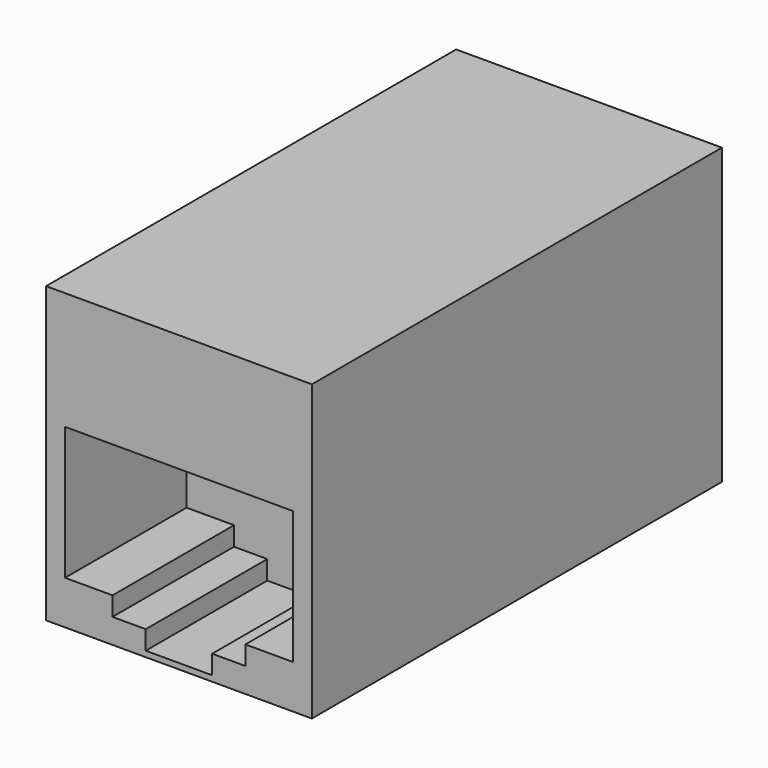
from build123d import *

# Parameters (mm, degrees)
PAD046_DEPTH = 8
PAD045_DEPTH = 8
BOX008_W     = 14
BOX008_H     = 27
BOX008_DEPTH = 15.5


with BuildPart() as obj1:
    # Sketch047 → Pad046 (new body)
    with BuildSketch(Plane(origin=(0, 19, 4), x_dir=(1, 0, 0), z_dir=(0, 1, 0))):
        Polygon((-6, 3.5), (6, 3.5), (6, -3.5), (3.5, -3.5), (3.5, -4.5), (1.75, -4.5), (1.75, -5.5), (-1.75, -5.5), (-1.75, -4.5), (-3.5, -4.5), (-3.5, -3.5), (-6, -3.5), align=None)
    extrude(amount=PAD046_DEPTH)


with BuildPart() as obj2:
    # Sketch046 → Pad045 (new body)
    with BuildSketch(Plane(origin=(0, 0, 0), x_dir=(-1, 0, 0), z_dir=(0, 1, 0))):
        Polygon((-6, 3.5), (6, 3.5), (6, -3.5), (3.5, -3.5), (3.5, -4.5), (1.75, -4.5), (1.75, -5.5), (-1.75, -5.5), (-1.75, -4.5), (-3.5, -4.5), (-3.5, -3.5), (-6, -3.5), align=None)
    extrude(amount=PAD045_DEPTH)


with BuildPart() as obj3:
    # Box008 → Box008 (new body)
    with BuildSketch(Plane(origin=(-7, 0, -5.8), x_dir=(1, 0, 0), z_dir=(0, 0, 1))):
        with Locations((7, 13.5)):
            Rectangle(BOX008_W, BOX008_H)
    extrude(amount=BOX008_DEPTH)

    # Cut015: cut obj2
    add(obj2.part, mode=Mode.SUBTRACT)

    # Cut016: cut obj1
    add(obj1.part, mode=Mode.SUBTRACT)


solid = obj3.part
